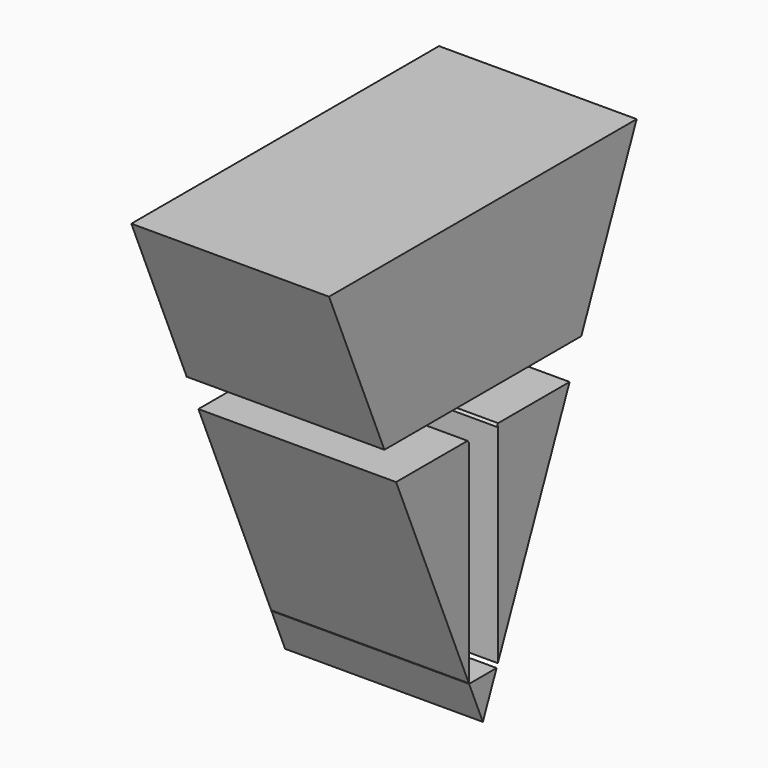
from build123d import *

# Parameters (mm, degrees)
F1_DEPTH = 24.13
F2_W     = 0.9143985808
F2_H     = 8.3820007276
F3_DEPTH = 698.5


with BuildPart() as f1:
    # F0 (on Right) → F1 (new body, symmetric)
    with BuildSketch(Plane.YZ):
        Polygon((46.9351433823, 45.2588890597), (-46.9351440185, 45.2588884), (0, -65.2018), align=None)
    extrude(amount=F1_DEPTH, both=True)

    # F2 (on face) → F3 (cut, symmetric)
    with BuildSketch(Plane.YZ.offset(24.13)):
        with BuildLine():
            Line((0, 0), (5.486400798, 0))
            ThreePointArc((5.486400798, 0), (3.8794712085, 3.8794712085), (0, 5.486400798))
            Line((0, 5.486400798), (0, 0))
        make_face()
        with BuildLine():
            Line((5.486400798, -2.8955999296), (5.486400798, 0))
            ThreePointArc((5.486400798, 0), (5.2757706871, -1.505601997), (4.6600530859, -2.8955999296))
            Line((4.6600530859, -2.8955999296), (5.486400798, -2.8955999296))
        make_face()
        with BuildLine():
            ThreePointArc((4.6600530859, -2.8955999296), (5.2757706871, -1.505601997), (5.486400798, 0))
            Line((5.486400798, 0), (0, 0))
            Line((0, 0), (0, 5.486400798))
            ThreePointArc((0, 5.486400798), (-4.7951546107, 2.665911847), (-4.6600530859, -2.8955999296))
            Line((-4.6600530859, -2.8955999296), (4.6600530859, -2.8955999296))
        make_face()
        with BuildLine():
            ThreePointArc((0, 5.486400798), (3.8794712085, 3.8794712085), (5.486400798, 0))
            Line((5.486400798, 0), (5.486400798, 5.486400798))
            Line((5.486400798, 5.486400798), (0, 5.486400798))
        make_face()
        Polygon((5.486400798, 5.486400798), (5.486400798, 0), (5.486400798, -2.8955999296), (31.6991992295, -2.8955999296), (31.6991992295, 5.486400798), align=None)
        with BuildLine():
            ThreePointArc((-4.6600530859, -2.8955999296), (-4.7951546107, 2.665911847), (0, 5.486400798))
            Line((0, 5.486400798), (-30.0356709063, 5.486400798))
            Line((-30.0356709063, 5.486400798), (-30.0356709063, -2.8955999296))
            Line((-30.0356709063, -2.8955999296), (-4.6600530859, -2.8955999296))
        make_face()
        with BuildLine():
            ThreePointArc((4.2206830775, -3.5052001476), (4.450816982, -3.2079310947), (4.6600530859, -2.8955999296))
            Line((4.6600530859, -2.8955999296), (-4.6600530859, -2.8955999296))
            ThreePointArc((-4.6600530859, -2.8955999296), (-4.450816982, -3.2079310947), (-4.2206830775, -3.5052001476))
            Line((-4.2206830775, -3.5052001476), (4.2206830775, -3.5052001476))
        make_face()
        with BuildLine():
            Line((4.5720008202, -3.5052001476), (4.2206830775, -3.5052001476))
            ThreePointArc((4.2206830775, -3.5052001476), (0, -5.486400798), (-4.2206830775, -3.5052001476))
            Line((-4.2206830775, -3.5052001476), (-4.2671998963, -3.5052001476))
            Line((-4.2671998963, -3.5052001476), (-4.2671998963, -55.3211988881))
            Line((-4.2671998963, -55.3211988881), (4.5720008202, -55.3211988881))
            Line((4.5720008202, -55.3211988881), (4.5720008202, -3.5052001476))
        make_face()
        with BuildLine():
            ThreePointArc((-4.2206830775, -3.5052001476), (0, -5.486400798), (4.2206830775, -3.5052001476))
            Line((4.2206830775, -3.5052001476), (-4.2206830775, -3.5052001476))
        make_face()
        with Locations((32.1563985199, 1.2954004342)):
            Rectangle(F2_W, F2_H)
    extrude(amount=F3_DEPTH, both=True, mode=Mode.SUBTRACT)


solid = f1.part
